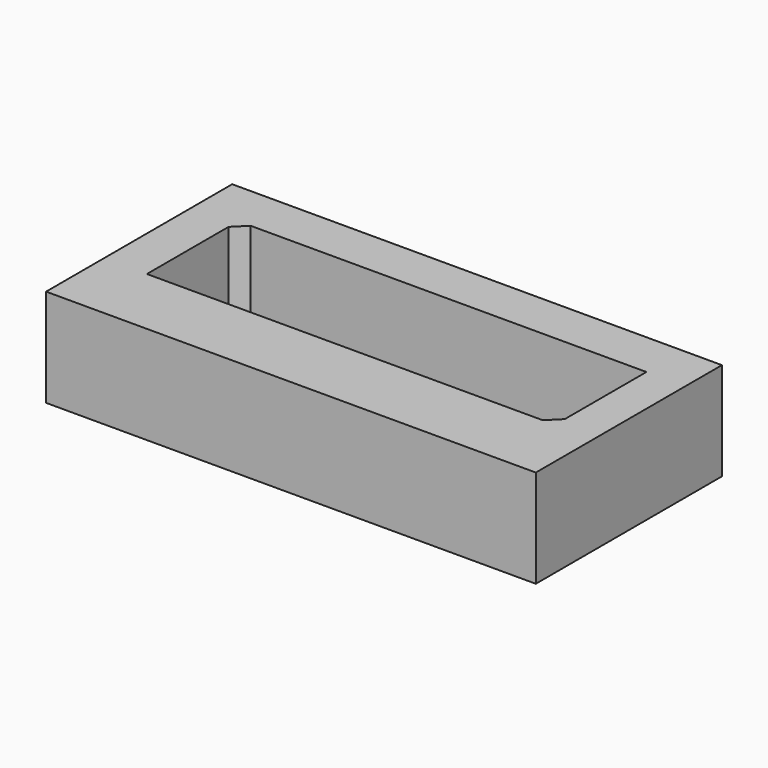
from build123d import *

# Parameters (mm, degrees)
F0_W     = 381
F0_H     = 180.975
F1_DEPTH = 76.2
F2_W     = 317.5
F2_H     = 88.9
F3_DEPTH = 76.2
F4_SIZE  = 9.525
F5_SIZE  = 9.525


with BuildPart() as f1:
    # F0 (on Top) → F1 (new body)
    with BuildSketch(Plane.XY):
        with Locations((-2.829934, 34.121945)):
            Rectangle(F0_W, F0_H)
    extrude(amount=F1_DEPTH)

    # F2 (on face) → F3 (cut)
    with BuildSketch(Plane.XY.offset(76.2)):
        with Locations((-1.251158, 44.45)):
            Rectangle(F2_W, F2_H)
    extrude(amount=-F3_DEPTH, mode=Mode.SUBTRACT)

    # F4
    f4_edges = [f1.edges().sort_by_distance(p)[0] for p in [
        (-160.001158, 88.9, 38.1),
    ]]
    chamfer(f4_edges, length=F4_SIZE)

    # F5
    f5_edges = [f1.edges().sort_by_distance(p)[0] for p in [
        (157.498842, 0, 38.1),
    ]]
    chamfer(f5_edges, length=F5_SIZE)


solid = f1.part
